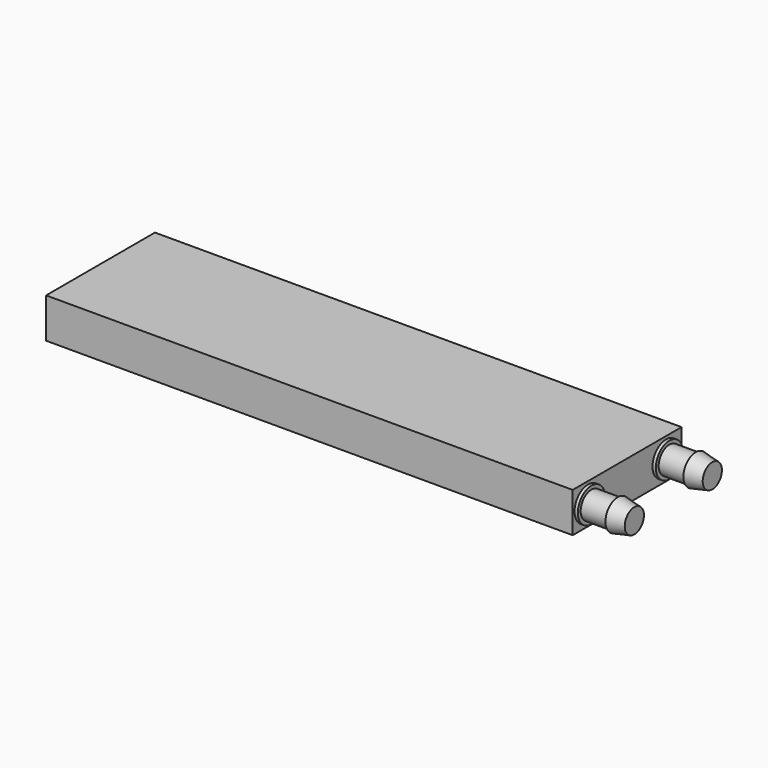
from build123d import *

# Parameters (mm, degrees)
F0_W     = 161.5186
F0_H     = 41.7322
F1_DEPTH = 6.1214
F7_R     = 5.207
F7_R_2   = 4.1275
F8_DEPTH = 1.016


with BuildPart() as f1:
    # F0 (on Top) → F1 (new body, symmetric)
    with BuildSketch(Plane.XY):
        Rectangle(F0_W, F0_H)
    extrude(amount=F1_DEPTH, both=True)

    # F2 (on Top) → F3 (revolve)
    with BuildSketch(Plane.XY):
        Polygon((80.7593, -14.9479), (80.7593, -19.0754), (89.8525, -19.0754), (89.8525, -19.6723), (94.9325, -18.6309), (94.9325, -14.9479), align=None)
    revolve(axis=Axis((87.8459, -14.9479, 0), (-1, 0, 0)))

    # F4: F1 across plane


with BuildPart() as f1_1:
    add(f1.part)
    add(f1.part.mirror(Plane.XZ))

    # F7 (on face) → F8 (join)
    with BuildSketch(Plane.YZ.offset(80.7593)):
        with Locations((-14.9479, 0)):
            Circle(F7_R)
        with Locations((-14.9479, 0)):
            Circle(F7_R_2, mode=Mode.SUBTRACT)
        with Locations((14.9479, 0)):
            Circle(F7_R)
        with Locations((14.9479, 0)):
            Circle(F7_R_2, mode=Mode.SUBTRACT)
    extrude(amount=F8_DEPTH)


solid = f1_1.part
